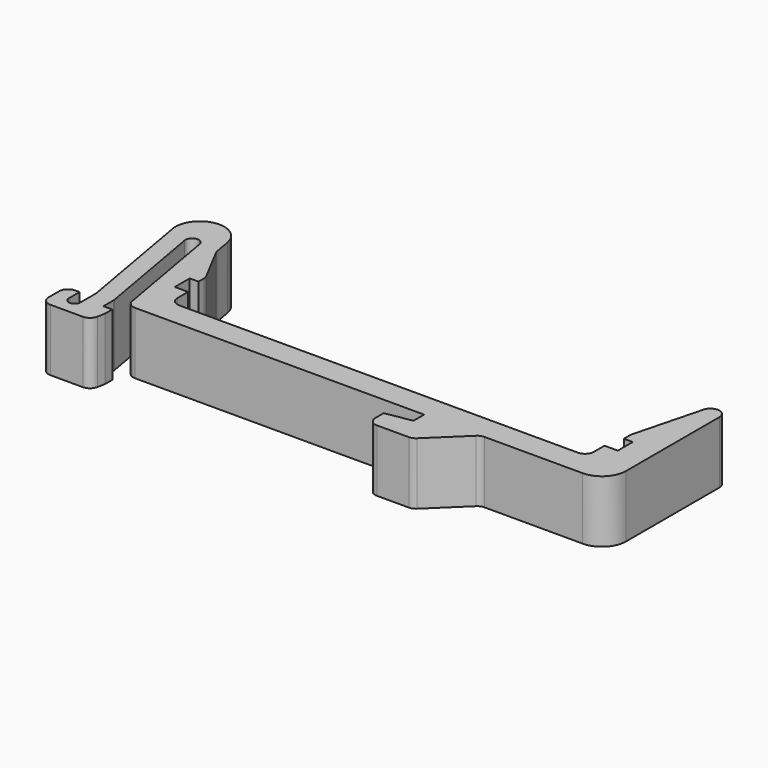
from build123d import *

# Parameters (mm, degrees)
F1_DEPTH = 7
F2_R     = 1


with BuildPart() as f1:
    # F0 (on Top) → F1 (new body)
    with BuildSketch(Plane.XY):
        with BuildLine():
            Line((-27.834629, -9.334226), (-27.834629, -12.834226))
            Line((-27.834629, -12.834226), (-22.334629, -12.834226))
            Line((-22.334629, -12.834226), (-22.003776, -11.134226))
            Line((-22.003776, -11.134226), (-22.003776, -10.134226))
            Line((-22.003776, -10.134226), (-23.003776, -10.134226))
            Line((-23.003776, -10.134226), (-23.003776, -8.634226))
            Line((-23.003776, -8.634226), (-25.259763, 4.160111))
            ThreePointArc((-25.259763, 4.160111), (-24.651393, 5.028953), (-23.782551, 4.420584))
            Line((-23.782551, 4.420584), (-21.480636, -8.634226))
            Line((-21.480636, -8.634226), (11.996224, -8.634226))
            Line((11.996224, -8.634226), (11.996224, -10.134226))
            Line((11.996224, -10.134226), (9.038184, -10.634226))
            Line((9.038184, -10.634226), (9.038184, -12.834226))
            Line((9.038184, -12.834226), (14.038184, -12.834226))
            Line((14.038184, -12.834226), (18.390972, -8.634226))
            Line((18.390972, -8.634226), (29.887993, -8.634226))
            ThreePointArc((29.887993, -8.634226), (31.816762, -7.835304), (32.615684, -5.906535))
            Line((32.615684, -5.906535), (32.615684, 7.253453))
            ThreePointArc((32.615684, 7.253453), (31.735595, 8.253453), (30.631889, 7.507538))
            Line((30.631889, 7.507538), (28.615684, -0.234227))
            Line((28.615684, -0.234227), (28.615684, -1.234227))
            Line((28.615684, -1.234227), (29.615684, -1.234227))
            Line((29.615684, -1.234227), (29.615684, -3.334226))
            Line((29.615684, -3.334226), (28.115683, -3.334226))
            Line((28.115683, -3.334226), (28.115683, -5.834226))
            Line((28.115683, -5.834226), (18.390972, -5.834226))
            Line((18.390972, -5.834226), (-18.884315, -5.834226))
            Line((-18.884315, -5.834226), (-18.884315, -3.334226))
            Line((-18.884315, -3.334226), (-20.384316, -3.334226))
            Line((-20.384316, -3.334226), (-20.384316, -1.234227))
            Line((-20.384316, -1.234227), (-19.384316, -1.234227))
            Line((-19.384316, -1.234227), (-19.384316, -0.234227))
            Line((-19.384316, -0.234227), (-21.711269, 4.1913))
            Line((-21.711269, 4.1913), (-22.058566, 6.160916))
            ThreePointArc((-22.058566, 6.160916), (-25.111557, 8.41877), (-27.524558, 5.48686))
            Line((-27.524558, 5.48686), (-25.034629, -8.634226))
            Line((-25.034629, -8.634226), (-25.034629, -10.834226))
            ThreePointArc((-25.034629, -10.834226), (-25.684629, -11.484226), (-26.334629, -10.834226))
            Line((-26.334629, -10.834226), (-26.334629, -9.334226))
            Line((-26.334629, -9.334226), (-27.834629, -9.334226))
        make_face()
    extrude(amount=F1_DEPTH)

    # F2
    f2_edges = [f1.edges().sort_by_distance(p)[0] for p in [
        (14.038184, -12.834226, 3.5),
        (-27.834629, -12.834226, 3.5),
        (-22.334629, -12.834226, 3.5),
        (-25.034629, -8.634226, 3.5),
        (18.390972, -8.634226, 3.5),
        (9.038184, -12.834226, 3.5),
        (-21.711269, 4.1913, 3.5),
        (28.615684, -0.234227, 3.5),
        (-19.384316, -0.234227, 3.5),
        (-18.884315, -5.834226, 3.5),
        (-21.480636, -8.634226, 3.5),
        (28.115683, -5.834226, 3.5),
        (-23.003776, -8.634226, 3.5),
        (-27.834629, -9.334226, 3.5),
    ]]
    fillet(f2_edges, radius=F2_R)


solid = f1.part
